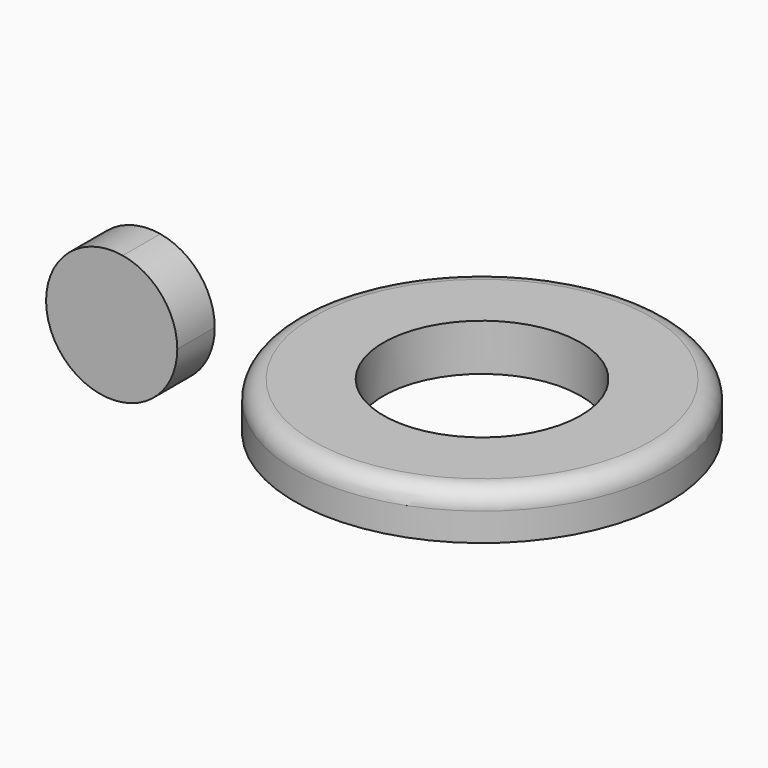
from build123d import *

# Parameters (mm, degrees)
F1_DEPTH = 25
F0_W     = 100
F0_H     = 25
F3_R     = 52.6678538914
F4_DEPTH = 57.1510077662
F5_R     = 10


with BuildPart() as f1:
    # F0 (on Front) → F1 (new body)
    with BuildSketch(Plane.XZ):
        with BuildLine():
            ThreePointArc((-82.3157624928, -13.9432047871), (-90.5497209026, 8.6084917698), (-111.3774206411, 20.5493465255))
            ThreePointArc((-111.3774206411, 20.5493465255), (-152.0199728395, -18.4838858165), (-102.7032546994, -45.7468935038))
            ThreePointArc((-102.7032546994, -45.7468935038), (-87.8502082576, -32.8318551787), (-82.3157624928, -13.9432047871))
        make_face()
    extrude(amount=F1_DEPTH)


with BuildPart() as f2:
    # F0 (on Front) → F2 (revolve)
    with BuildSketch(Plane.XZ):
        with Locations((10.3136047721, -4.2931970209)):
            Rectangle(F0_W, F0_H)
    revolve(axis=Axis((60.3136047721, 0, -4.2931970209), (0, 0, -1)))

    # F3 (on face) → F4 (cut, through all)
    with BuildSketch(Plane.XY.offset(8.2068029791)):
        with Locations((60.3136047721, 0)):
            Circle(F3_R)
    extrude(amount=-F4_DEPTH, mode=Mode.SUBTRACT)

    # F5
    f5_edges = [f2.edges().sort_by_distance(p)[0] for p in [
        (160.313605, 0, 8.206803),
    ]]
    fillet(f5_edges, radius=F5_R)


solid = Compound([f1.part, f2.part])
